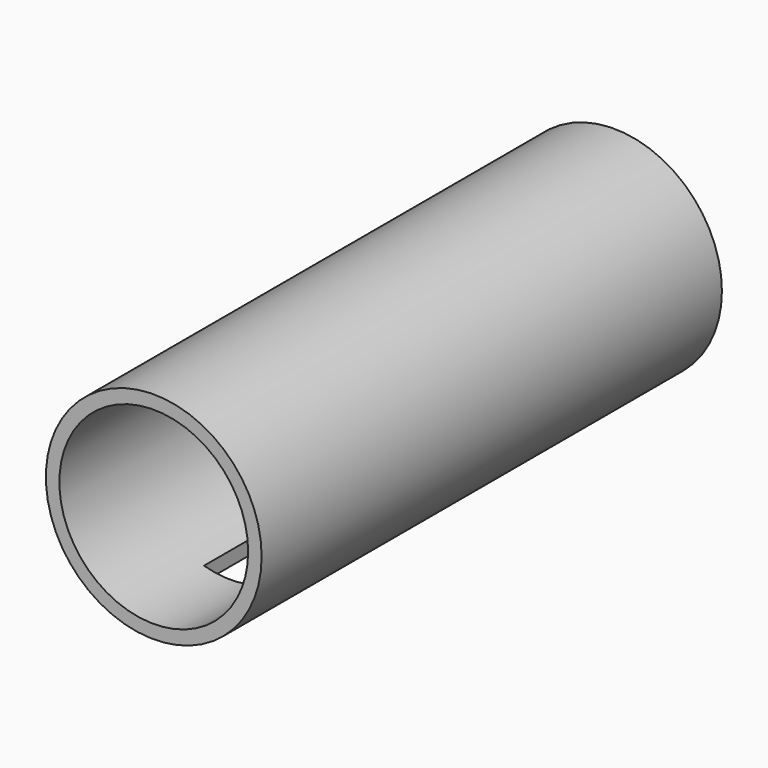
from build123d import *

# Parameters (mm, degrees)
F0_R     = 14.2875
F0_R_2   = 12.5
F1_DEPTH = 76.2
F2_W     = 7
F2_H     = 50.8
F3_DEPTH = 14.2885


with BuildPart() as f1:
    # F0 (on Front) → F1 (new body)
    with BuildSketch(Plane.XZ):
        Circle(F0_R)
        Circle(F0_R_2, mode=Mode.SUBTRACT)
    extrude(amount=F1_DEPTH)

    # F2 (on Top) → F3 (cut, through all)
    with BuildSketch(Plane.XY):
        with Locations((0, -38.1)):
            Rectangle(F2_W, F2_H)
    extrude(amount=-F3_DEPTH, mode=Mode.SUBTRACT)


solid = f1.part
